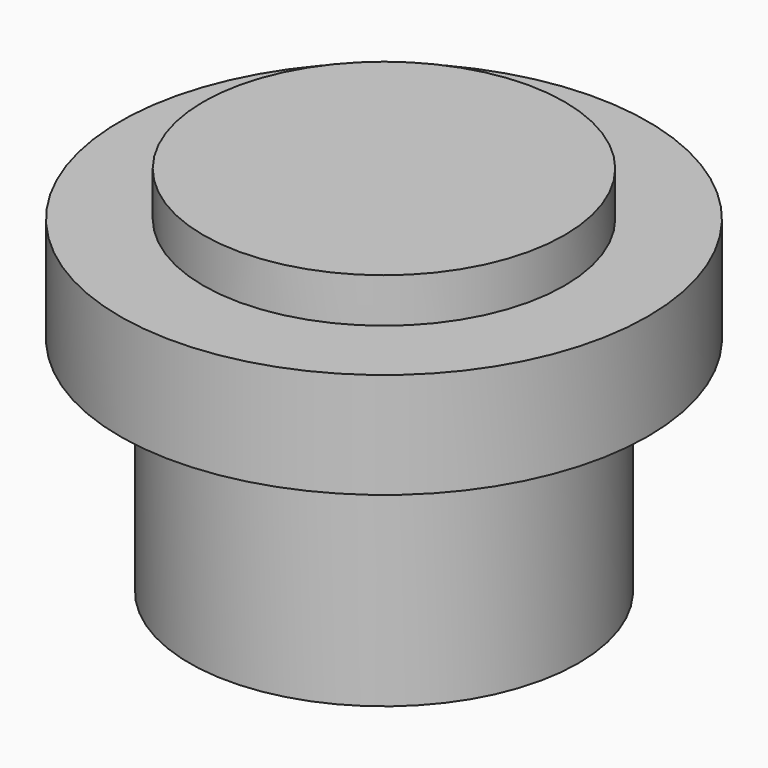
from build123d import *

# Parameters (mm, degrees)
F0_R     = 3.5
F1_DEPTH = 4
F2_R     = 4.75
F2_R_2   = 3.5
F3_DEPTH = 1.9
F4_R     = 3.25
F5_DEPTH = 0.8
F6_R     = 0.9
F7_DEPTH = 5.5


with BuildPart() as f1:
    # F0 (on Top) → F1 (new body)
    with BuildSketch(Plane.XY):
        Circle(F0_R)
    extrude(amount=F1_DEPTH)

    # F2 (on face) → F3 (join)
    with BuildSketch(Plane.XY.offset(4)):
        Circle(F2_R)
        Circle(F2_R_2, mode=Mode.SUBTRACT)
        Circle(F2_R_2)
    extrude(amount=F3_DEPTH)

    # F4 (on face) → F5 (join)
    with BuildSketch(Plane.XY.offset(5.9)):
        Circle(F4_R)
    extrude(amount=F5_DEPTH)

    # F6 (on face) → F7 (cut)
    with BuildSketch(Plane(origin=(0, 0, 0), x_dir=(1, 0, 0), z_dir=(0, 0, -1))):
        Circle(F6_R)
    extrude(amount=-F7_DEPTH, mode=Mode.SUBTRACT)


solid = f1.part
